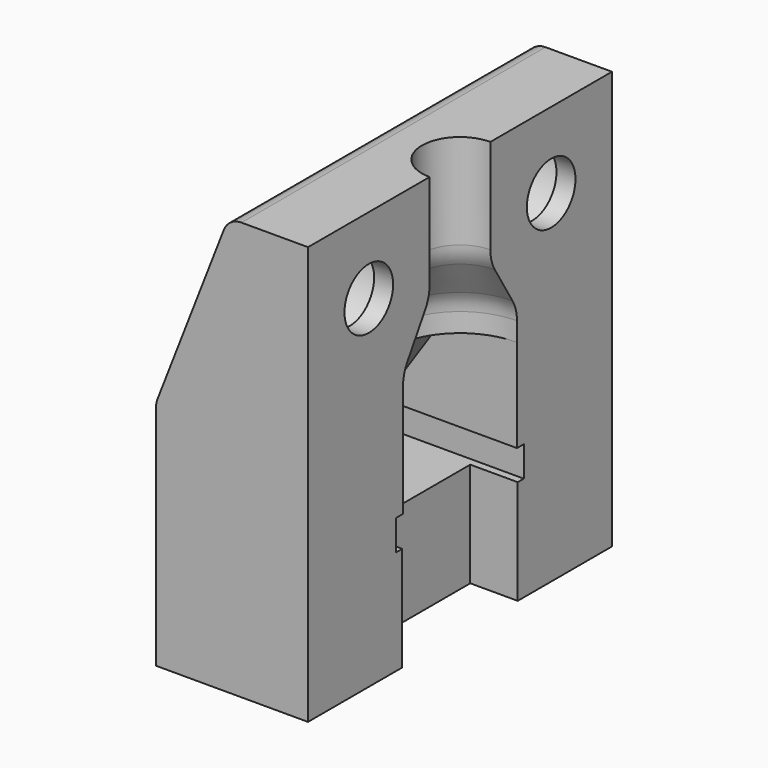
from build123d import *

# Parameters (mm, degrees)
PAD001_DEPTH    = 3.75
PAD_DEPTH       = 10
SKETCH002_W     = 1.6
SKETCH002_H     = 8.4
POCKET_DEPTH    = 7
SKETCH006_R     = 3.2
POCKET001_DEPTH = 7
SKETCH007_R     = 1.6
POCKET002_DEPTH = 8
SKETCH008_W     = 2.5
SKETCH008_H     = 7.6
POCKET003_DEPTH = 5.5
SKETCH009_W     = 3
SKETCH009_H     = 3
POCKET004_DEPTH = 12


with BuildPart() as revolution:
    # Sketch004 → Revolution (revolve)
    with BuildSketch(Plane.YZ):
        with BuildLine():
            Line((0, 24), (0, 10))
            Line((0, 10), (3.75, 10))
            Line((3.75, 10), (3.75, 13))
            ThreePointArc((3.75, 13), (3.675928, 13.53926), (3.459199, 14.038576))
            Line((3.459199, 14.038576), (2.290801, 15.961424))
            ThreePointArc((2, 17), (2.074072, 16.46074), (2.290801, 15.961424))
            Line((2, 17), (2, 24))
            Line((2, 24), (0, 24))
        make_face()
    revolve(axis=Axis((0, 0, 0), (0, 0, 1)))


with BuildPart() as pad001:
    # Sketch005 → Pad001 (new body, symmetric)
    with BuildSketch(Plane.XZ):
        with BuildLine():
            Line((-6.5, 7.1), (-6.5, 7.6))
            ThreePointArc((-6.3302, 8.157466), (-6.456609, 7.891376), (-6.5, 7.6))
            Line((-6.3302, 8.157466), (-3.75, 12))
            Line((-3.75, 12), (0, 12))
            Line((0, 12), (0, 7.1))
            Line((0, 7.1), (-6.5, 7.1))
        make_face()
    extrude(amount=PAD001_DEPTH, both=True)


with BuildPart() as pocket004:
    # Sketch → Pad (new body, symmetric)
    with BuildSketch(Plane.XZ):
        with BuildLine():
            Line((0, 0), (0, 22))
            Line((0, 22), (-3.5, 22))
            ThreePointArc((-3.5, 22), (-4.064603, 21.825362), (-4.432005, 21.362446))
            Line((-4.432005, 21.362446), (-7.932005, 12.362446))
            ThreePointArc((-7.932005, 12.362446), (-7.982854, 12.184385), (-8, 12))
            Line((-8, 12), (-8, 0))
            Line((-8, 0), (0, 0))
        make_face()
    extrude(amount=PAD_DEPTH, both=True)

    # Sketch002 → Pocket (cut)
    with BuildSketch(Plane(origin=(0, 0, 0), x_dir=(0, 0, 1), z_dir=(1, 0, 0))):
        with Locations((6.3, 0)):
            Rectangle(SKETCH002_W, SKETCH002_H)
    extrude(amount=-POCKET_DEPTH, mode=Mode.SUBTRACT)

    # Cut: cut Pad001
    add(pad001.part, mode=Mode.SUBTRACT)

    # Cut001: cut Revolution
    add(revolution.part, mode=Mode.SUBTRACT)

    # Sketch006 → Pocket001 (cut)
    with BuildSketch(Plane(origin=(-8, 0, 0), x_dir=(0, -1, 0), z_dir=(-1, 0, 0))):
        with Locations((-6, 18)):
            Circle(SKETCH006_R)
        with Locations((6, 18)):
            Circle(SKETCH006_R)
    extrude(amount=-POCKET001_DEPTH, mode=Mode.SUBTRACT)

    # Sketch007 → Pocket002 (cut)
    with BuildSketch(Plane(origin=(-8, 0, 0), x_dir=(0, -1, 0), z_dir=(-1, 0, 0))):
        with Locations((-6, 18)):
            Circle(SKETCH007_R)
        with Locations((6, 18)):
            Circle(SKETCH007_R)
    extrude(amount=-POCKET002_DEPTH, mode=Mode.SUBTRACT)

    # Sketch008 → Pocket003 (cut)
    with BuildSketch(Plane(origin=(0, 0, 0), x_dir=(1, 0, 0), z_dir=(0, 0, -1))):
        with Locations((-1.25, 0)):
            Rectangle(SKETCH008_W, SKETCH008_H)
    extrude(amount=-POCKET003_DEPTH, mode=Mode.SUBTRACT)

    # Sketch009 → Pocket004 (cut)
    with BuildSketch(Plane(origin=(0, 0, 0), x_dir=(1, 0, 0), z_dir=(0, 0, -1))):
        with Locations((-8, 6)):
            Rectangle(SKETCH009_W, SKETCH009_H)
        with Locations((-8, -6)):
            Rectangle(SKETCH009_W, SKETCH009_H)
    extrude(amount=-POCKET004_DEPTH, mode=Mode.SUBTRACT)


solid = pocket004.part
